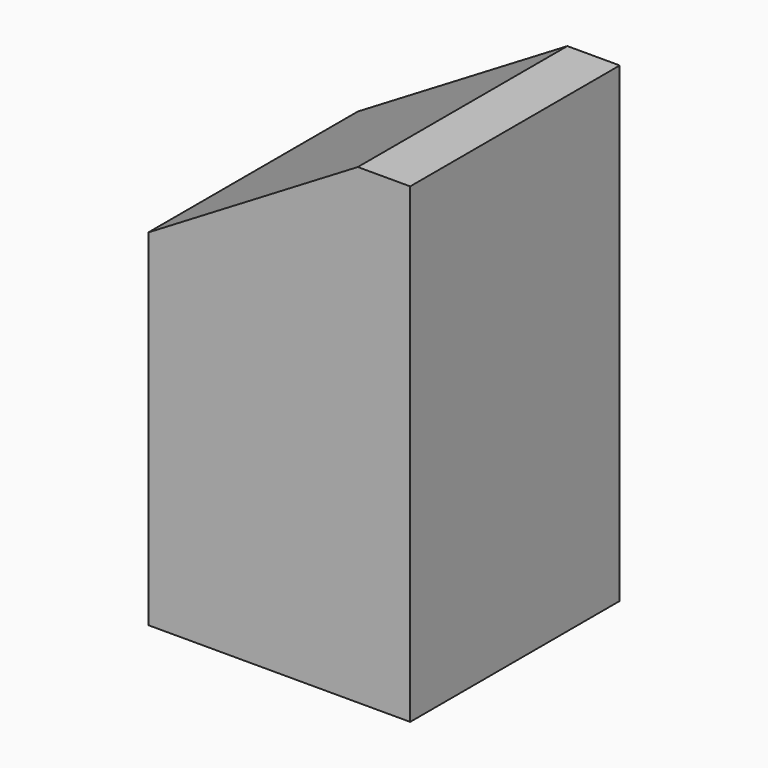
from build123d import *

# Parameters (mm, degrees)
SKETCH021_W     = 16
SKETCH021_H     = 16
PAD012_DEPTH    = 28.8
POCKET009_DEPTH = 16
PAD139_DEPTH    = 16


with BuildPart() as part:
    # Sketch021 (on Face60 of Binder008) → Pad012 (new body)
    with BuildSketch(Plane.XY.offset(-28.8)):
        with Locations((-8, 64)):
            Rectangle(SKETCH021_W, SKETCH021_H)
    extrude(amount=PAD012_DEPTH)

    # Sketch022 (on Face3 of Pad012) → Pocket009 (cut)
    with BuildSketch(Plane.XZ.offset(-56)):
        Polygon((-16, -9.6), (0, 0), (-16, 0), align=None)
    extrude(amount=-POCKET009_DEPTH, mode=Mode.SUBTRACT)

    # Sketch139 (on Face6 of Pocket009) → Pad139 (join)
    with BuildSketch(Plane.XZ.offset(-56)):
        Polygon((0, 0), (-3.2, 0), (-16, -7.68), (-16, -10.88), (-3.2, -3.2), (0, -3.2), align=None)
    extrude(amount=-PAD139_DEPTH)


solid = part.part
